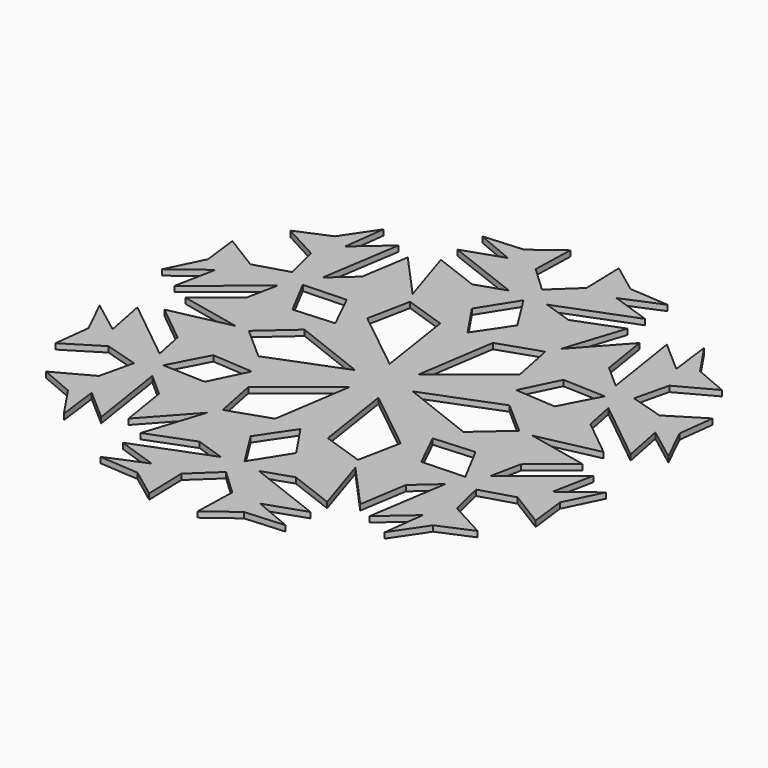
from build123d import *

# Parameters (mm, degrees)
F1_DEPTH = 2
F4_COUNT = 6
F4_ANGLE = 300


with BuildPart() as f1:
    # F0 (on Top) → F1 (new body)
    with BuildSketch(Plane.XY):
        Polygon((-3.2329817768, 66.8248683214), (8.0453734845, 48.9121899009), (-2.093318617, 33.8490381837), (0, 13.6142224073), (0, 0), (3.7587733038, 0), (9.3085616827, 36.5094803274), (25.0811669976, 41.8303571641), (32.9873822629, 66.3811415434), (17.0520264655, 60.2824240923), (6.7185084336, 63.7288540602), (33.2126766443, 73.987826705), (19.2160885781, 78.7753090262), (32.7906534076, 84.480561316), (18.8226215541, 85.4642242193), (8.5925143212, 93.1368023157), (9.0090529993, 78.3579275012), align=None)
    extrude(amount=F1_DEPTH)

    # F2: F1 across plane


with BuildPart() as f1_1:
    add(f1.part)
    add(f1.part.mirror(Plane.YZ))

    # F4: F1 ×6 about axis
    f4_axis = Axis((0, 0, 4.1130185127), (0, 0, 1))


with BuildPart() as f1_2:
    add(f1_1.part)
    for i in range(1, F4_COUNT):
        add(f1_1.part.rotate(f4_axis, i * F4_ANGLE / (F4_COUNT - 1)))


solid = f1_2.part
